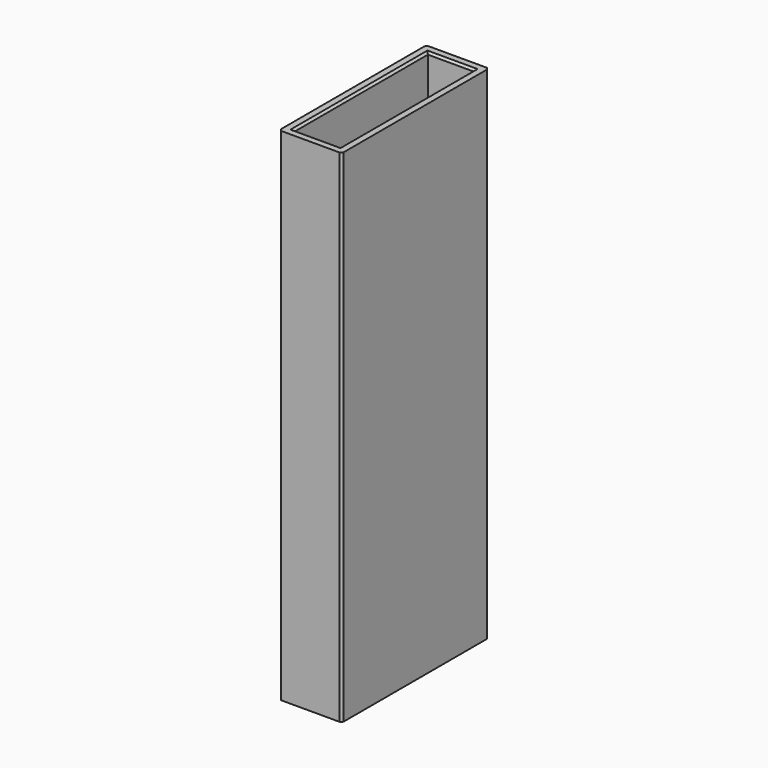
from build123d import *

# Parameters (mm, degrees)
SKETCH114_W     = 15
SKETCH114_H     = 44
SKETCH114_W_2   = 7
SKETCH114_H_2   = 30
PAD062_DEPTH    = 120
SKETCH115_W     = 11
SKETCH115_H     = 40
POCKET042_DEPTH = 31
SKETCH116_W     = 11
SKETCH116_H     = 40
POCKET043_DEPTH = 31
CHAMFER059_SIZE = 0.5
CHAMFER060_SIZE = 0.5


with BuildPart() as part:
    # Sketch114 → Pad062 (new body)
    with BuildSketch(Plane.XY):
        Rectangle(SKETCH114_W, SKETCH114_H)
        Rectangle(SKETCH114_W_2, SKETCH114_H_2, mode=Mode.SUBTRACT)
    extrude(amount=PAD062_DEPTH)

    # Sketch115 (on Face9 of Pad062) → Pocket042 (cut)
    with BuildSketch(Plane(origin=(0, 0, 0), x_dir=(1, 0, 0), z_dir=(0, 0, -1))):
        Rectangle(SKETCH115_W, SKETCH115_H)
    extrude(amount=-POCKET042_DEPTH, mode=Mode.SUBTRACT)

    # Sketch116 (on Face5 of Pocket042) → Pocket043 (cut)
    with BuildSketch(Plane.XY.offset(120)):
        Rectangle(SKETCH116_W, SKETCH116_H)
    extrude(amount=-POCKET043_DEPTH, mode=Mode.SUBTRACT)

    # Chamfer059
    chamfer059_edges = [part.edges().sort_by_distance(p)[0] for p in [
        (7.5, -22, 60),
        (-7.5, -22, 60),
        (-7.5, 22, 60),
        (7.5, 22, 60),
    ]]
    chamfer(chamfer059_edges, length=CHAMFER059_SIZE)

    # Chamfer060
    chamfer060_edges = [part.edges().sort_by_distance(p)[0] for p in [
        (-5.5, 0, 120),
        (0, -20, 120),
        (5.5, 0, 120),
        (0, 20, 120),
        (-5.5, 0, 0),
        (5.5, 0, 0),
        (0, -20, 0),
        (0, 20, 0),
    ]]
    chamfer(chamfer060_edges, length=CHAMFER060_SIZE)


with BuildPart() as part_1:
    # Body021 placement: moved
    add(part.part.moved(Location((106.5, -22, -126))))


solid = part_1.part
